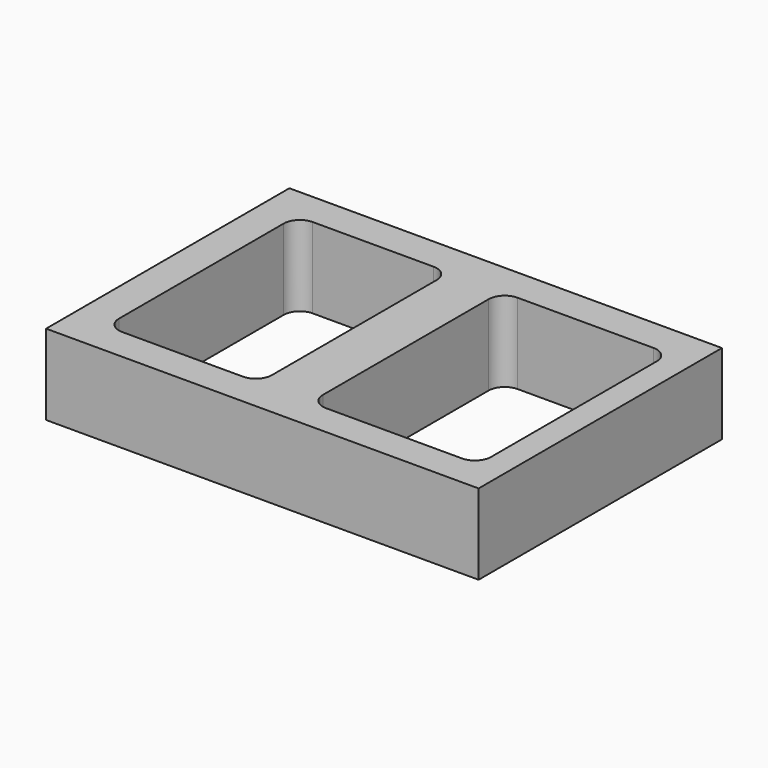
from build123d import *

# Parameters (mm, degrees)
F0_W     = 134.455651
F0_H     = 94.536297
F1_DEPTH = 25
F2_W     = 47.540324
F2_H     = 74.032262
F3_DEPTH = 25
F2_W_2   = 52.258067
F2_H_2   = 74.395165
F4_DEPTH = 25
F5_R     = 5


with BuildPart() as f1:
    # F0 (on Top) → F1 (new body)
    with BuildSketch(Plane.XY):
        with Locations((0.090725, 0.090726)):
            Rectangle(F0_W, F0_H)
    extrude(amount=F1_DEPTH)

    # F2 (on face) → F3 (cut)
    with BuildSketch(Plane.XY.offset(25)):
        with Locations((-32.842743, 0)):
            Rectangle(F2_W, F2_H)
    extrude(amount=-F3_DEPTH, mode=Mode.SUBTRACT)

    # F2 (on face) → F4 (cut)
    with BuildSketch(Plane.XY.offset(25)):
        with Locations((-32.842743, 0)):
            Rectangle(F2_W, F2_H)
        with Locations((33.205647, -0.181451)):
            Rectangle(F2_W_2, F2_H_2)
    extrude(amount=-F4_DEPTH, mode=Mode.SUBTRACT)

    # F5
    f5_edges = [f1.edges().sort_by_distance(p)[0] for p in [
        (-56.612905, 37.016131, 12.5),
        (-9.072581, 37.016131, 12.5),
        (-56.612905, -37.016131, 12.5),
        (-9.072581, -37.016131, 12.5),
        (7.076613, -37.379034, 12.5),
        (7.076613, 37.016131, 12.5),
        (59.33468, 37.016131, 12.5),
        (59.33468, -37.379034, 12.5),
    ]]
    fillet(f5_edges, radius=F5_R)


solid = f1.part
